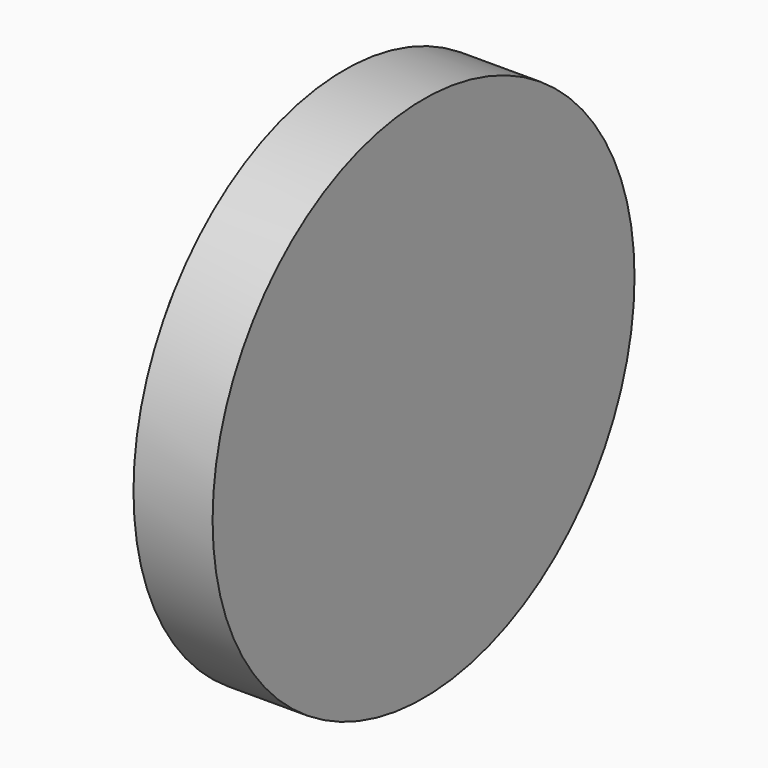
from build123d import *

# Parameters (mm, degrees)
F0_R          = 27.5
F1_DEPTH      = 20
F2_R          = 50
F3_DEPTH      = 10
F3_DEPTH_BACK = 5


with BuildPart() as f1:
    # F0 (on Right) → F1 (new body)
    with BuildSketch(Plane.YZ):
        Circle(F0_R)
    extrude(amount=F1_DEPTH)

    # F2 (on face) → F3 (join, two sides)
    with BuildSketch(Plane.YZ.offset(20)) as f3_sk:
        Circle(F2_R)
    extrude(amount=F3_DEPTH)
    extrude(f3_sk.sketch, amount=-F3_DEPTH_BACK)


solid = f1.part
